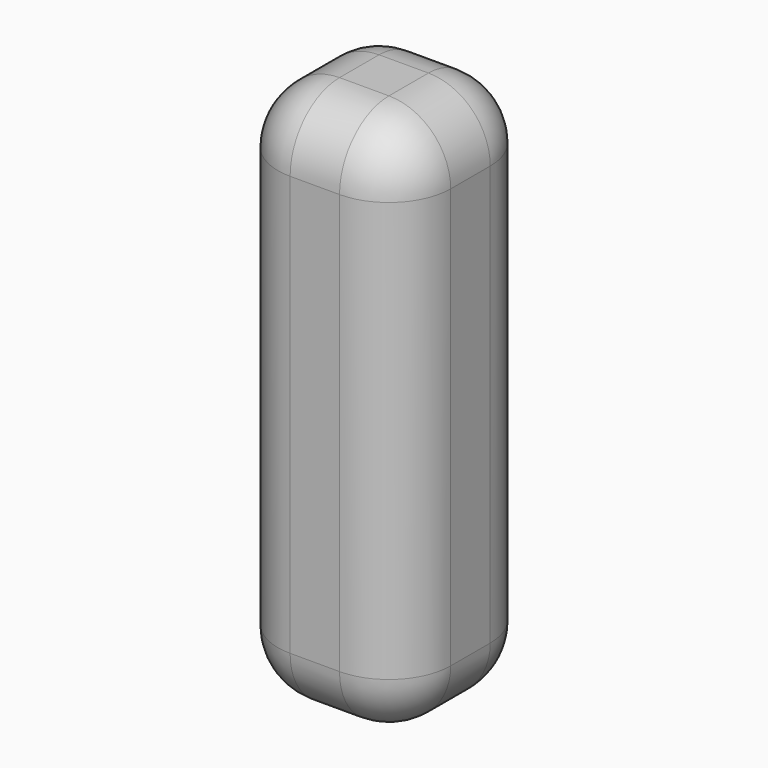
from build123d import *

# Parameters (mm, degrees)
F0_W     = 14
F0_H     = 14
F1_DEPTH = 44
F2_R     = 5
F3_R     = 5


with BuildPart() as f1:
    # F0 (on Top) → F1 (new body)
    with BuildSketch(Plane.XY):
        Rectangle(F0_W, F0_H)
    extrude(amount=F1_DEPTH)

    # F2
    f2_edges = [f1.edges().sort_by_distance(p)[0] for p in [
        (0, -7, 0),
        (0, 7, 0),
        (0, -7, 44),
        (0, 7, 44),
    ]]
    fillet(f2_edges, radius=F2_R)

    # F3
    f3_edges = [f1.edges().sort_by_distance(p)[0] for p in [
        (7, 7, 22),
        (0, 7, 5),
        (0, 7, 39),
        (-7, 7, 22),
    ]]
    fillet(f3_edges, radius=F3_R)


solid = f1.part
